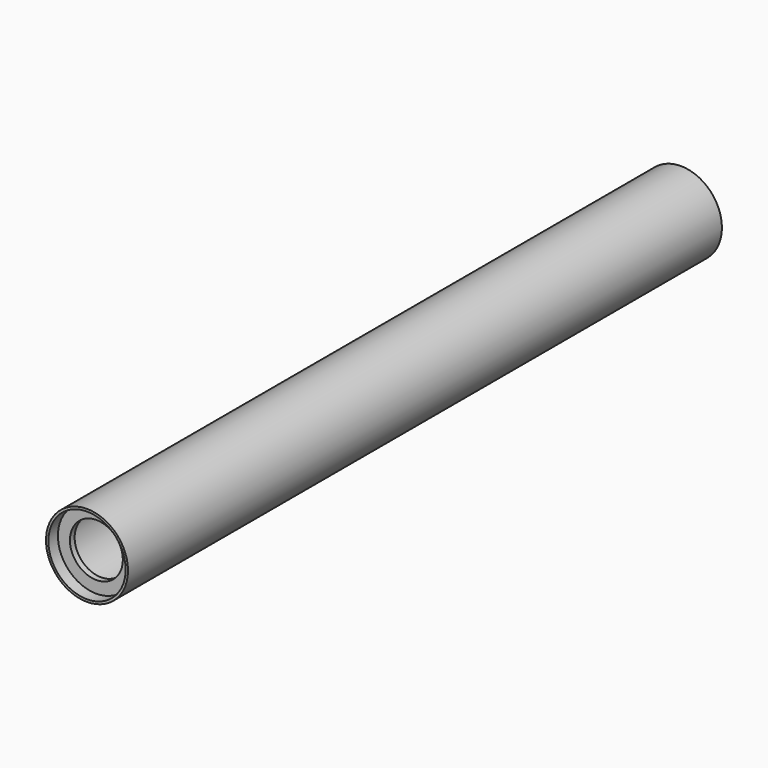
from build123d import *

# Parameters (mm, degrees)
F1_R     = 69.85
F1_R_2   = 65.85
F2_DEPTH = 632.5
F3_START = 602.5
F1_R_3   = 65.6
F1_R_4   = 45.1
F3_DEPTH = 10


with BuildPart() as f2:
    # F1 (on Front) → F2 (new body, symmetric)
    with BuildSketch(Plane.XZ):
        Circle(F1_R)
        Circle(F1_R_2, mode=Mode.SUBTRACT)
    extrude(amount=F2_DEPTH, both=True)


with BuildPart() as f3:
    # F1 (on Front) → F3 (new body)
    with BuildSketch(Plane.XZ.offset(F3_START)):
        Circle(F1_R_3)
        Circle(F1_R_4, mode=Mode.SUBTRACT)
    extrude(amount=F3_DEPTH)


solid = Compound([f2.part, f3.part])
